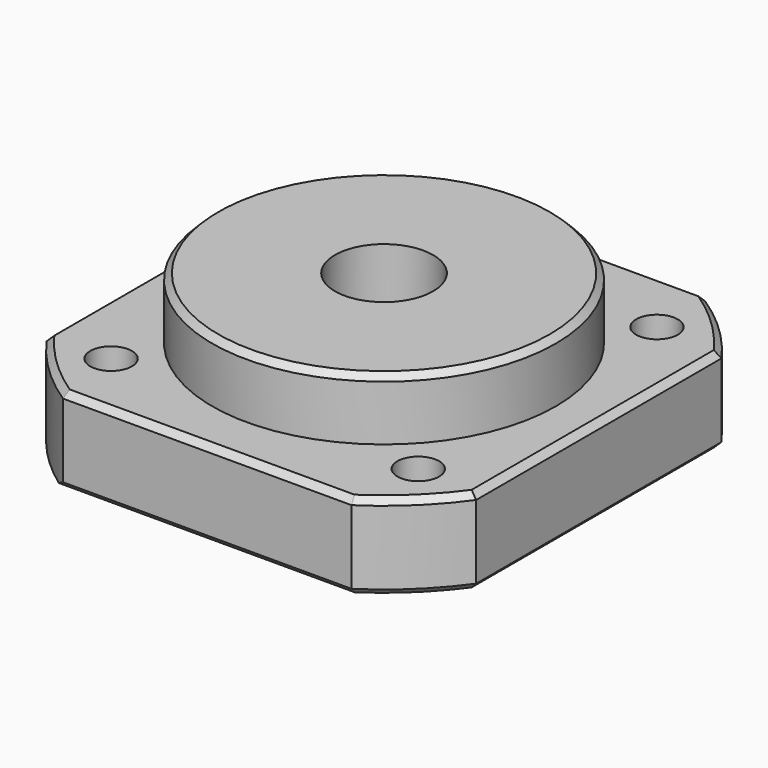
from build123d import *

# Parameters (mm, degrees)
F0_R     = 3.25
F0_R_2   = 14
F0_R_3   = 4
F0_R_4   = 1.7
F1_DEPTH = 7
F2_DEPTH = 5
F3_R     = 3.25
F3_R_2   = 1.7
F4_DEPTH = 4
F3_R_3   = 12.5077468671
F3_R_4   = 4
F5_DEPTH = 3
F6_SIZE  = 0.5


with BuildPart() as f1:
    # F0 (on Top) → F1 (new body)
    with BuildSketch(Plane.XY):
        with BuildLine():
            ThreePointArc((17.5, 12.4899959968), (14.8835536543, 15.5154706864), (11.7519612405, 18.0039275438))
            Line((11.7519612405, 18.0039275438), (-11.7519612405, 18.0039275438))
            ThreePointArc((-11.7519612405, 18.0039275438), (-14.8835536543, 15.5154706864), (-17.5, 12.4899959968))
            Line((-17.5, 12.4899959968), (-17.5, -12.4899959968))
            ThreePointArc((-17.5, -12.4899959968), (-14.8835536543, -15.5154706864), (-11.7519612405, -18.0039275438))
            Line((-11.7519612405, -18.0039275438), (11.7519612405, -18.0039275438))
            ThreePointArc((11.7519612405, -18.0039275438), (14.8835536543, -15.5154706864), (17.5, -12.4899959968))
            Line((17.5, -12.4899959968), (17.5, 12.4899959968))
        make_face()
        with Locations((-12.1975036036, -12.5487412054)):
            Circle(F0_R, mode=Mode.SUBTRACT)
        with Locations((12.5487412054, -12.1975036036)):
            Circle(F0_R, mode=Mode.SUBTRACT)
        with Locations((-12.5487412054, 12.1975036036)):
            Circle(F0_R, mode=Mode.SUBTRACT)
        Circle(F0_R_2, mode=Mode.SUBTRACT)
        with Locations((12.1975036036, 12.5487412054)):
            Circle(F0_R, mode=Mode.SUBTRACT)
        Circle(F0_R_2)
        Circle(F0_R_3, mode=Mode.SUBTRACT)
        with Locations((12.1975036036, 12.5487412054)):
            Circle(F0_R)
        with Locations((12.1975036036, 12.5487412054)):
            Circle(F0_R_4, mode=Mode.SUBTRACT)
        with Locations((-12.5487412054, 12.1975036036)):
            Circle(F0_R)
        with Locations((-12.5487412054, 12.1975036036)):
            Circle(F0_R_4, mode=Mode.SUBTRACT)
        with Locations((-12.1975036036, -12.5487412054)):
            Circle(F0_R)
        with Locations((-12.1975036036, -12.5487412054)):
            Circle(F0_R_4, mode=Mode.SUBTRACT)
        with Locations((12.5487412054, -12.1975036036)):
            Circle(F0_R)
        with Locations((12.5487412054, -12.1975036036)):
            Circle(F0_R_4, mode=Mode.SUBTRACT)
    extrude(amount=-F1_DEPTH)

    # F0 (on Top) → F2 (join)
    with BuildSketch(Plane.XY):
        Circle(F0_R_2)
        Circle(F0_R_3, mode=Mode.SUBTRACT)
    extrude(amount=F2_DEPTH)

    # F3 (on face) → F4 (cut)
    with BuildSketch(Plane(origin=(0, 0, -7), x_dir=(1, 0, 0), z_dir=(0, 0, -1))):
        with Locations((-12.1975036036, 12.5487412054)):
            Circle(F3_R)
        with Locations((-12.1975036036, 12.5487412054)):
            Circle(F3_R_2, mode=Mode.SUBTRACT)
        with Locations((12.5487412054, 12.1975036036)):
            Circle(F3_R)
        with Locations((12.5487412054, 12.1975036036)):
            Circle(F3_R_2, mode=Mode.SUBTRACT)
        with Locations((12.1975036036, -12.5487412054)):
            Circle(F3_R)
        with Locations((12.1975036036, -12.5487412054)):
            Circle(F3_R_2, mode=Mode.SUBTRACT)
        with Locations((-12.5487412054, -12.1975036036)):
            Circle(F3_R)
        with Locations((-12.5487412054, -12.1975036036)):
            Circle(F3_R_2, mode=Mode.SUBTRACT)
    extrude(amount=-F4_DEPTH, mode=Mode.SUBTRACT)

    # F3 (on face) → F5 (cut)
    with BuildSketch(Plane(origin=(0, 0, -7), x_dir=(1, 0, 0), z_dir=(0, 0, -1))):
        Circle(F3_R_3)
        Circle(F3_R_4, mode=Mode.SUBTRACT)
    extrude(amount=-F5_DEPTH, mode=Mode.SUBTRACT)

    # F6
    f6_edges = [f1.edges().sort_by_distance(p)[0] for p in [
        (-17.5, 0, 0),
        (-14.883554, -15.515471, 0),
        (0, -18.003928, -7),
        (14.883554, -15.515471, -7),
        (17.5, 0, -7),
        (14.883554, 15.515471, -7),
        (0, 18.003928, -7),
        (-14.883554, 15.515471, 0),
        (-12.507747, 0, -7),
        (-14, 0, 5),
        (14.883554, 15.515471, 0),
        (17.5, 0, 0),
        (14.883554, -15.515471, 0),
        (0, -18.003928, 0),
        (0, 18.003928, 0),
    ]]
    chamfer(f6_edges, length=F6_SIZE)


solid = f1.part
